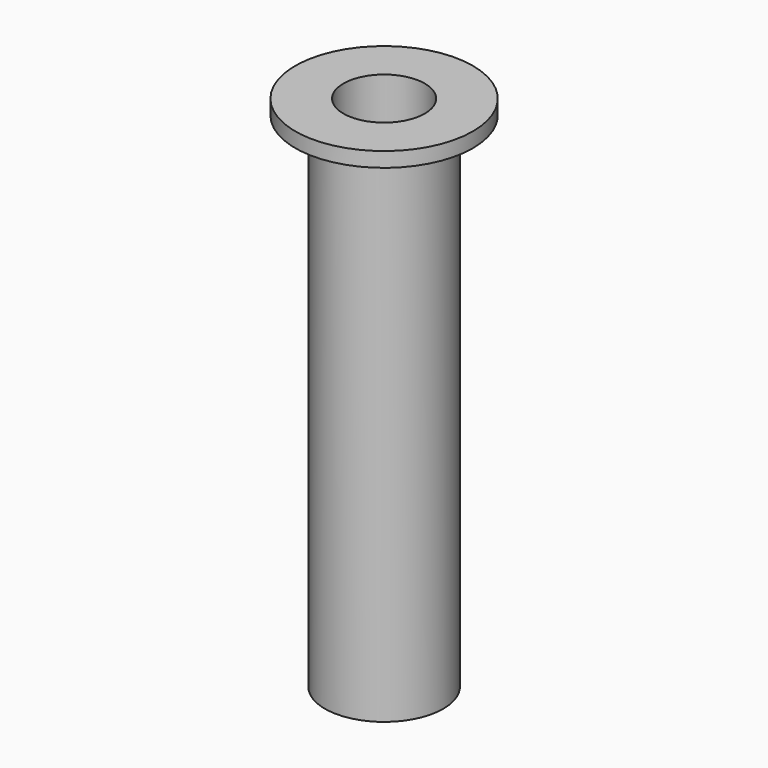
from build123d import *

# Parameters (mm, degrees)
F0_R     = 6
F1_DEPTH = 1
F2_R     = 4
F3_DEPTH = 34
F4_R     = 2.75
F5_DEPTH = 35


with BuildPart() as f1:
    # F0 (on Top) → F1 (new body)
    with BuildSketch(Plane.XY):
        Circle(F0_R)
    extrude(amount=-F1_DEPTH)

    # F2 (on face) → F3 (join)
    with BuildSketch(Plane(origin=(0, 0, -1), x_dir=(1, 0, 0), z_dir=(0, 0, -1))):
        Circle(F2_R)
    extrude(amount=F3_DEPTH)

    # F4 (on face) → F5 (cut)
    with BuildSketch(Plane.XY):
        Circle(F4_R)
    extrude(amount=-F5_DEPTH, mode=Mode.SUBTRACT)


solid = f1.part
